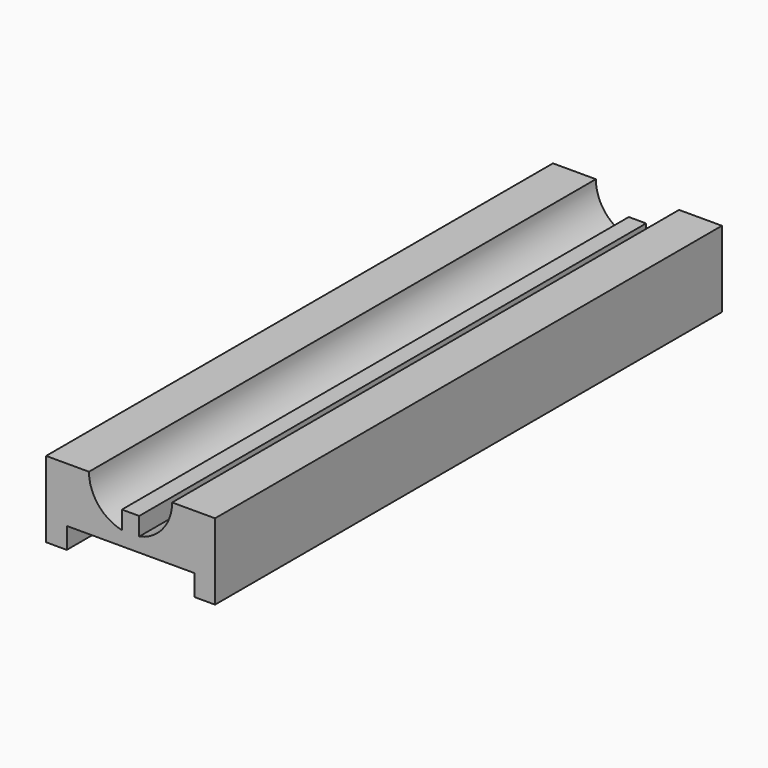
from build123d import *

# Parameters (mm, degrees)
F1_DEPTH = 150


with BuildPart() as f1:
    # F0 (on Front) → F1 (new body)
    with BuildSketch(Plane.XZ):
        with BuildLine():
            Line((15.1, -18), (20, -18))
            Line((20, -18), (20, 0))
            Line((20, 0), (9.84551, 0))
            ThreePointArc((9.84551, 0), (7.652364, -6.194787), (2.05, -9.629723))
            Line((2.05, -9.629723), (2.05, -5.346))
            Line((2.05, -5.346), (-2.05, -5.346))
            Line((-2.05, -5.346), (-2.05, -9.629723))
            ThreePointArc((-2.05, -9.629723), (-7.652364, -6.194787), (-9.84551, 0))
            Line((-9.84551, 0), (-20, 0))
            Line((-20, 0), (-20, -18))
            Line((-20, -18), (-15.1, -18))
            Line((-15.1, -18), (-15.1, -13))
            Line((-15.1, -13), (15.1, -13))
            Line((15.1, -13), (15.1, -18))
        make_face()
    extrude(amount=F1_DEPTH)


solid = f1.part
